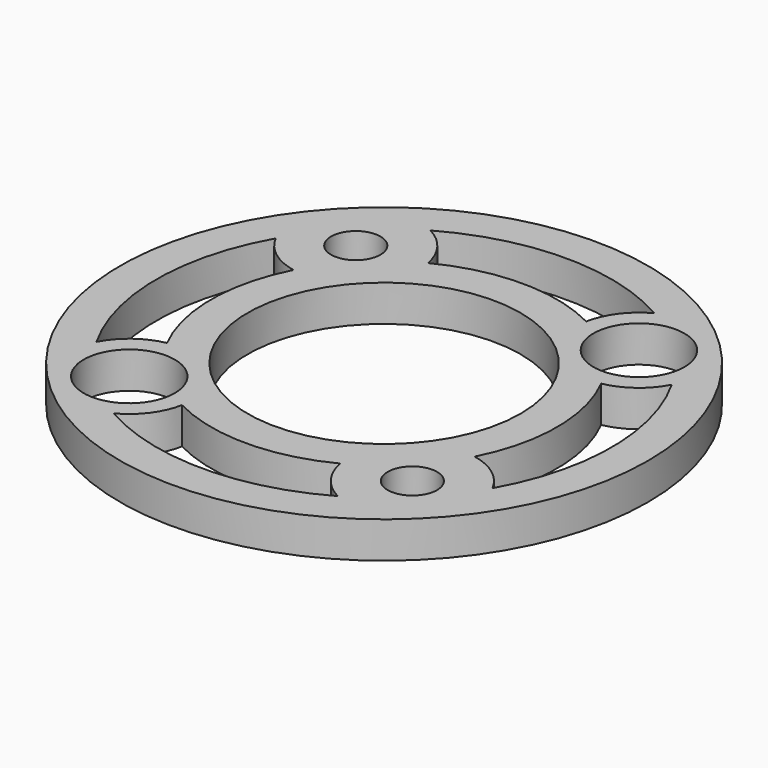
from build123d import *

# Parameters (mm, degrees)
F0_R     = 23.01875
F0_R_2   = 3.96875
F0_R_3   = 2.15265
F0_R_4   = 11.90625
F1_DEPTH = 3.175
F3_DEPTH = 3.175


with BuildPart() as f1:
    # F0 (on Top) → F1 (new body)
    with BuildSketch(Plane.XY):
        Circle(F0_R)
        with Locations((-12.347852, -12.347852)):
            Circle(F0_R_2, mode=Mode.SUBTRACT)
        with Locations((12.347852, -12.347852)):
            Circle(F0_R_3, mode=Mode.SUBTRACT)
        with Locations((-12.347852, 12.347852)):
            Circle(F0_R_3, mode=Mode.SUBTRACT)
        Circle(F0_R_4, mode=Mode.SUBTRACT)
        with Locations((12.347852, 12.347852)):
            Circle(F0_R_2, mode=Mode.SUBTRACT)
    extrude(amount=F1_DEPTH)

    # F2 (on face) → F3 (cut, through all)
    with BuildSketch(Plane.XY.offset(3.175)):
        with BuildLine():
            ThreePointArc((-9.771912, 17.270905), (-7.8939, 15.669632), (-6.894649, 13.412976))
            ThreePointArc((-6.894649, 13.412976), (0, 15.08125), (6.894649, 13.412976))
            ThreePointArc((6.894649, 13.412976), (7.8939, 15.669632), (9.771912, 17.270905))
            ThreePointArc((9.771912, 17.270905), (0, 19.84375), (-9.771912, 17.270905))
        make_face()
        with BuildLine():
            ThreePointArc((-13.412976, 6.894649), (-15.669632, 7.8939), (-17.270905, 9.771912))
            ThreePointArc((-17.270905, 9.771912), (-19.84375, 0), (-17.270905, -9.771912))
            ThreePointArc((-17.270905, -9.771912), (-15.669632, -7.8939), (-13.412976, -6.894649))
            ThreePointArc((-13.412976, -6.894649), (-15.08125, 0), (-13.412976, 6.894649))
        make_face()
        with BuildLine():
            ThreePointArc((17.270905, 9.771912), (15.669632, 7.8939), (13.412976, 6.894649))
            ThreePointArc((13.412976, 6.894649), (15.08125, 0), (13.412976, -6.894649))
            ThreePointArc((13.412976, -6.894649), (15.669632, -7.8939), (17.270905, -9.771912))
            ThreePointArc((17.270905, -9.771912), (19.84375, 0), (17.270905, 9.771912))
        make_face()
        with BuildLine():
            ThreePointArc((-6.894649, -13.412976), (-7.8939, -15.669632), (-9.771912, -17.270905))
            ThreePointArc((-9.771912, -17.270905), (0, -19.84375), (9.771912, -17.270905))
            ThreePointArc((9.771912, -17.270905), (7.8939, -15.669632), (6.894649, -13.412976))
            ThreePointArc((6.894649, -13.412976), (0, -15.08125), (-6.894649, -13.412976))
        make_face()
    extrude(amount=-F3_DEPTH, mode=Mode.SUBTRACT)


solid = f1.part
